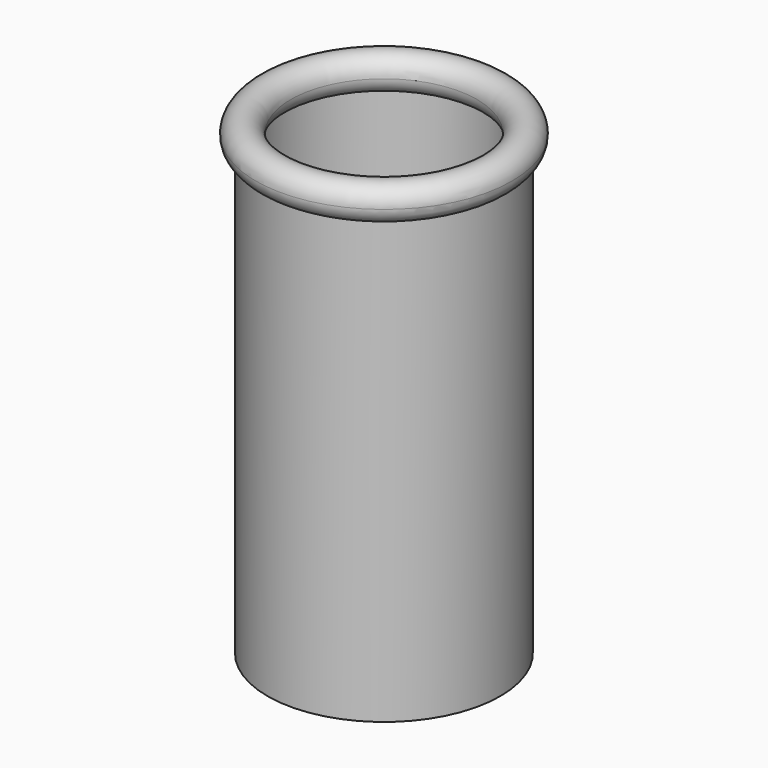
from build123d import *

# Parameters (mm, degrees)
F0_W     = 2
F0_H     = 2
F0_H_2   = 20
F2_R     = 3.75
F3_DEPTH = 25.4


with BuildPart() as f1:
    # F0 (on Front) → F1 (revolve)
    with BuildSketch(Plane.XZ):
        with BuildLine():
            ThreePointArc((22, 58.5849373941), (19, 61.5849373941), (16, 58.5849373941))
            Line((16, 58.5849373941), (18, 58.5849373941))
            Line((18, 58.5849373941), (20, 58.5849373941))
            Line((20, 58.5849373941), (20, 55.7565102694))
            ThreePointArc((20, 55.7565102694), (21.4494897428, 56.8528865866), (22, 58.5849373941))
        make_face()
        with BuildLine():
            Line((20, 58.5849373941), (18, 58.5849373941))
            Line((18, 58.5849373941), (18, 55.7565102694))
            ThreePointArc((18, 55.7565102694), (19, 55.5849373941), (20, 55.7565102694))
            Line((20, 55.7565102694), (20, 58.5849373941))
        make_face()
        with BuildLine():
            Line((18, 58.5849373941), (16, 58.5849373941))
            ThreePointArc((16, 58.5849373941), (16.5505102572, 56.8528865866), (18, 55.7565102694))
            Line((18, 55.7565102694), (18, 58.5849373941))
        make_face()
        Polygon((15.5, 0), (13.5, 0), (13.5, -18), (0, -18), (0, -20), (15.5, -20), align=None)
        with Locations((19, 1)):
            Rectangle(F0_W, F0_H)
        Polygon((13.5, 2), (13.5, 0), (15.5, 0), (18, 0), (18, 2), align=None)
        with Locations((19, -10)):
            Rectangle(F0_W, F0_H_2)
        with BuildLine():
            Line((18, 55.7565102694), (18, 2))
            Line((18, 2), (20, 2))
            Line((20, 2), (20, 55.7565102694))
            ThreePointArc((20, 55.7565102694), (19, 55.5849373941), (18, 55.7565102694))
        make_face()
    revolve(axis=Axis((0, 0, 29.2924686971), (0, 0, 1)))

    # F2 (on face) → F3 (cut)
    with BuildSketch(Plane(origin=(0, 0, -20), x_dir=(1, 0, 0), z_dir=(0, 0, -1))):
        with BuildLine():
            Line((0, -4), (0, -11.5))
            ThreePointArc((0, -11.5), (2.6516504294, -10.4016504294), (3.75, -7.75))
            ThreePointArc((3.75, -7.75), (2.6516504294, -5.0983495706), (0, -4))
        make_face()
        with BuildLine():
            ThreePointArc((0, -4), (-3.75, -7.75), (0, -11.5))
            Line((0, -11.5), (0, -4))
        make_face()
        with Locations((-7.75, 0)):
            Circle(F2_R)
        with BuildLine():
            ThreePointArc((3.75, 7.75), (2.6516504294, 10.4016504294), (0, 11.5))
            Line((0, 11.5), (0, 4))
            ThreePointArc((0, 4), (2.6516504294, 5.0983495706), (3.75, 7.75))
        make_face()
        with BuildLine():
            Line((0, 4), (0, 11.5))
            ThreePointArc((0, 11.5), (-3.75, 7.75), (0, 4))
        make_face()
        with BuildLine():
            Line((4, 0), (11.5, 0))
            ThreePointArc((11.5, 0), (7.75, 3.75), (4, 0))
        make_face()
        with BuildLine():
            ThreePointArc((4, 0), (7.75, -3.75), (11.5, 0))
            Line((11.5, 0), (4, 0))
        make_face()
    extrude(amount=-F3_DEPTH, mode=Mode.SUBTRACT)


solid = f1.part
